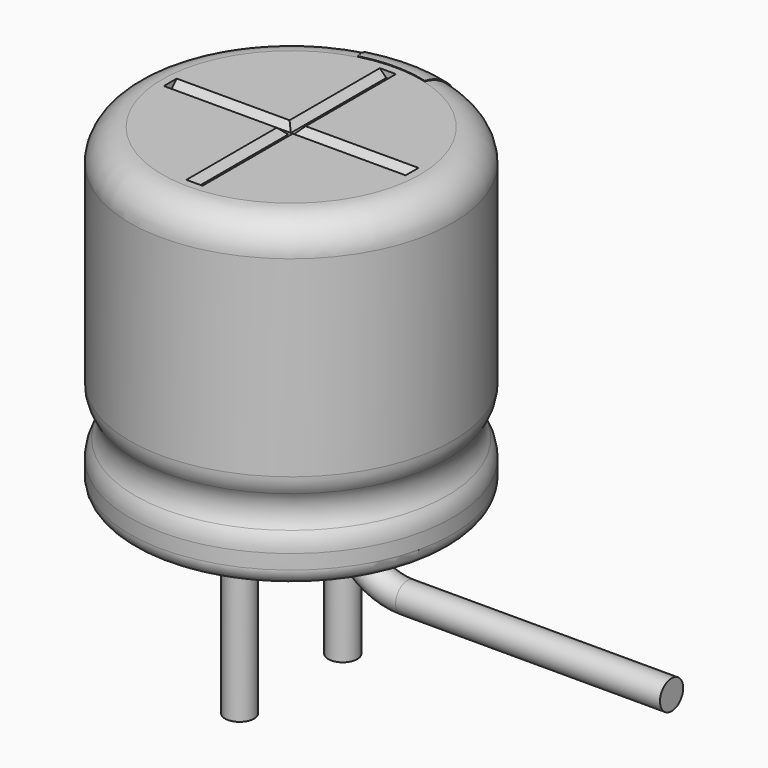
from build123d import *

# Parameters (mm, degrees)
SKETCH003_R         = 0.225
REVOLUTION001_ANGLE = -30
SKETCH015_W         = 0.25
SKETCH015_H         = 0.5
POCKET002_DEPTH     = 2.511
LINEARPATTERN_COUNT = 3
LINEARPATTERN_PITCH = 1.25
SKETCH010_R         = 0.225
PAD002_DEPTH        = 2.6
SKETCH013_R         = 2
PAD_DEPTH           = 0.5
POCKET001_DEPTH     = 1.875
POLARPATTERN_COUNT  = 3
POLARPATTERN_ANGLE  = 180
SKETCH012_R         = 2
POCKET_DEPTH        = 0.5


with BuildPart() as obj1:
    # AdditivePipe: sweep along a path in Sketch004
    with BuildLine(Plane.XZ) as additivepipe_path:
        Line((0, 0), (0, -0.5))
        ThreePointArc((0, -0.5), (0.292893, -1.207107), (1, -1.5))
        Line((1, -1.5), (5.1, -1.5))
    # Sketch003 (on ShapeBinder) → AdditivePipe (sweep)
    with BuildSketch(Plane(origin=(0, 0, 0), x_dir=(1, 0, 0), z_dir=(0, 0, -1))):
        with Locations((0, 1)):
            Circle(SKETCH003_R)
    sweep(path=additivepipe_path.line)


with BuildPart() as obj1_1:
    # Body003 placement: moved
    add(obj1.part.moved(Location((0, 2, 0))))


with BuildPart() as polaritymarking:
    # Sketch005 → Revolution001 (revolve)
    with BuildSketch(Plane(origin=(0, 0, 0), x_dir=(-0.258819, 0.965926, 0), z_dir=(0.965926, 0.258819, 0))):
        with BuildLine():
            Line((2.01, 0.25), (2.01, 5.01))
            ThreePointArc((2.01, 5.01), (2.363553, 4.863553), (2.51, 4.51))
            Line((2.51, 4.51), (2.51, 1.523941))
            ThreePointArc((2.51, 1.523941), (2.489134, 1.381006), (2.428278, 1.25))
            ThreePointArc((2.428278, 1.25), (2.353698, 1), (2.428278, 0.75))
            ThreePointArc((2.428278, 0.75), (2.489134, 0.618994), (2.51, 0.476059))
            Line((2.51, 0.476059), (2.51, 0.25))
            ThreePointArc((2.51, 0.25), (2.26, 0), (2.01, 0.25))
        make_face()
    revolve(axis=Axis((0, 0, 0), (0, 0, 1)), revolution_arc=REVOLUTION001_ANGLE)

    # Sketch015 → Pocket002 (cut, through all)
    with BuildSketch(Plane.XZ):
        with Locations((0, 1.75)):
            Rectangle(SKETCH015_W, SKETCH015_H)
    pocket002 = extrude(amount=-POCKET002_DEPTH, mode=Mode.SUBTRACT)

    # LinearPattern: Pocket002 ×3
    with Locations(*[(0, 0, i * LINEARPATTERN_PITCH) for i in range(1, LINEARPATTERN_COUNT)]):
        add(pocket002, mode=Mode.SUBTRACT)


with BuildPart() as obj2:
    # Sketch010 → Pad002 (new body)
    with BuildSketch(Plane(origin=(0, 1, 0), x_dir=(1, 0, 0), z_dir=(0, 0, 1))):
        Circle(SKETCH010_R)
    extrude(amount=-PAD002_DEPTH)


with BuildPart() as obj3:
    # Body007 base: copy of obj2
    add(obj2.part)


with BuildPart() as obj3_1:
    # Body007 placement: moved
    add(obj3.part.moved(Location((0, -2, 0))))


with BuildPart() as housingtop:
    # Sketch013 (on ShapeBinder) → Pad (new body)
    with BuildSketch(Plane.XY.offset(4.5)):
        Circle(SKETCH013_R)
    extrude(amount=PAD_DEPTH)

    # Sketch014 → Pocket001 (cut, symmetric)
    with BuildSketch(Plane.XZ):
        Polygon((-0.125, 5), (0.125, 5), (0.025, 4.9), (-0.025, 4.9), align=None)
    pocket001 = extrude(amount=POCKET001_DEPTH, both=True, mode=Mode.SUBTRACT)

    # PolarPattern: Pocket001 ×3 about axis
    polarpattern_axis = Axis((0, 0, 0), (0, 0, 1))
    for i in range(1, POLARPATTERN_COUNT):
        add(pocket001.rotate(polarpattern_axis, i * POLARPATTERN_ANGLE / (POLARPATTERN_COUNT - 1)), mode=Mode.SUBTRACT)


with BuildPart() as fusion:
    # Sketch → Revolution (revolve)
    with BuildSketch(Plane.XZ):
        with BuildLine():
            Line((0, 5), (2, 5))
            ThreePointArc((2.5, 4.5), (2.353553, 4.853553), (2, 5))
            Line((2.5, 4.5), (2.5, 1.523941))
            ThreePointArc((2.418278, 1.25), (2.479134, 1.381006), (2.5, 1.523941))
            ThreePointArc((2.418278, 1.25), (2.343698, 1), (2.418278, 0.75))
            ThreePointArc((2.5, 0.476059), (2.479134, 0.618994), (2.418278, 0.75))
            Line((2.5, 0.476059), (2.5, 0.25))
            ThreePointArc((2.25, 0), (2.426777, 0.073223), (2.5, 0.25))
            Line((0, 0), (2.25, 0))
            Line((0, 5), (0, 0))
        make_face()
    revolve(axis=Axis((0, 0, 0), (0, 0, 1)))

    # Sketch012 → Pocket (cut)
    with BuildSketch(Plane.XY.offset(5)):
        Circle(SKETCH012_R)
    extrude(amount=-POCKET_DEPTH, mode=Mode.SUBTRACT)

    # Fusion: union PolarityMarking, obj2, obj3, HousingTop
    add(polaritymarking.part)
    add(obj2.part)
    add(obj3_1.part)
    add(housingtop.part)


solid = Compound([obj1_1.part, fusion.part])
